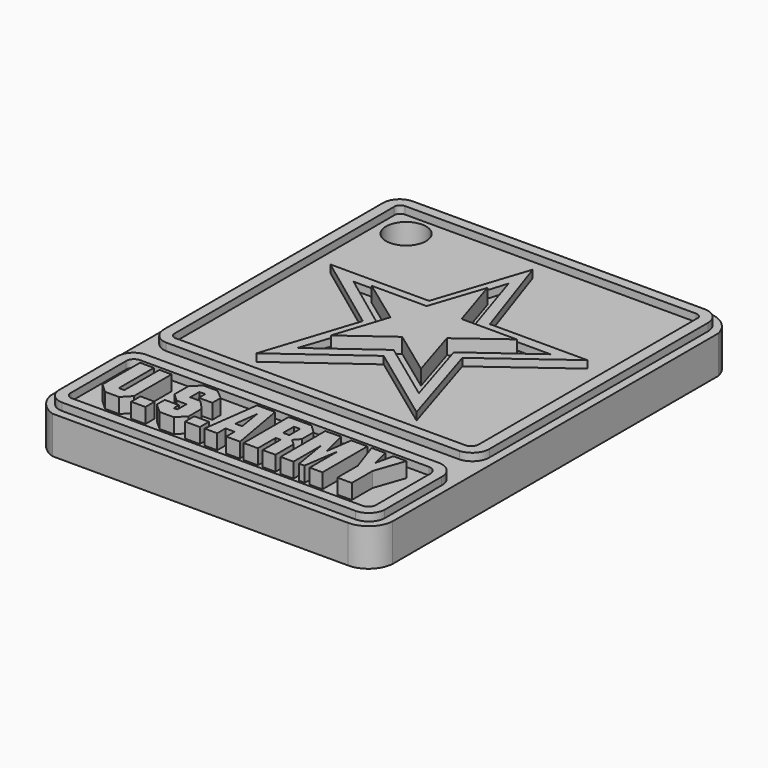
from build123d import *

# Parameters (mm, degrees)
F3_DEPTH = 5
F2_W     = 1.972348
F2_H     = 1.531718
F2_W_2   = 0.824641
F2_H_2   = 1.804244
F4_DEPTH = 7
F5_DEPTH = 6
F6_R     = 2.66535
F7_DEPTH = 25


with BuildPart() as f3:
    # F0 (on Top) → F3 (new body)
    with BuildSketch(Plane.XY):
        with BuildLine():
            ThreePointArc((-56.252591, 67.774169), (-58.569985, 66.714597), (-59.516679, 64.348847))
            Line((-59.516679, 64.348847), (-59.516679, 10.507591))
            ThreePointArc((-59.516679, 10.507591), (-58.576435, 8.605541), (-56.804508, 7.438438))
            Line((-56.804508, 7.438438), (-17.379601, 7.438438))
            ThreePointArc((-17.379601, 7.438438), (-15.063115, 8.349842), (-13.988701, 10.59537))
            Line((-13.988701, 10.59537), (-13.988701, 64.895824))
            ThreePointArc((-13.988701, 64.895824), (-15.211268, 66.892462), (-17.3801, 67.774169))
            Line((-17.3801, 67.774169), (-56.252591, 67.774169))
        make_face()
    extrude(amount=F3_DEPTH)

    # F2 (on face) → F4 (join)
    with BuildSketch(Plane.XY):
        Polygon((-34.477703, 47.703966), (-36.762577, 54.855321), (-39.136469, 47.703966), (-46.465863, 47.703966), (-40.501457, 43.371614), (-42.78633, 36.309283), (-36.792252, 40.700983), (-30.768499, 36.309283), (-32.964349, 43.371614), (-27.118638, 47.703966), align=None)
        Polygon((-52.602682, 19.098559), (-54.448072, 19.098559), (-54.448072, 12.837417), (-53.211175, 11.707636), (-51.322754, 11.707636), (-50.25265, 12.837417), (-50.25265, 19.098559), (-51.868297, 19.098559), (-51.868297, 13.260337), (-52.602682, 13.260337), align=None)
        Polygon((-47.797702, 13.197389), (-49.686123, 13.197389), (-49.686123, 11.665671), (-47.776721, 11.665671), align=None)
        with Locations((-41.523952, 12.43153)):
            Rectangle(F2_W, F2_H)
        Polygon((-27.69652, 19.156404), (-29.773781, 19.11444), (-29.773781, 11.665671), (-28.05322, 11.665671), (-28.05322, 16.260827), (-27.297853, 11.665671), (-26.605431, 11.665671), (-25.89203, 16.344756), (-25.89203, 11.665671), (-24.192452, 11.665671), (-24.192452, 19.156404), (-26.33266, 19.156404), (-26.836239, 15.631353), align=None)
        Polygon((-21.800453, 19.156404), (-23.625925, 19.156404), (-22.241084, 15.106793), (-22.241084, 11.707636), (-20.310698, 11.707636), (-20.310698, 15.16974), (-18.946839, 19.11444), (-20.688383, 19.11444), (-21.216365, 16.763071), align=None)
        Polygon((-44.189095, 19.199306), (-46.056628, 19.199306), (-47.21006, 18.192066), (-47.21006, 15.778592), (-46.140123, 14.812943), (-44.838972, 14.812943), (-44.838972, 13.301941), (-45.321684, 13.301941), (-45.321684, 14.162599), (-47.21006, 14.162599), (-47.21006, 12.837417), (-45.92995, 11.707636), (-44.04144, 11.707636), (-42.950634, 12.837417), (-42.950634, 15.00163), (-44.146817, 16.282091), (-45.510922, 16.282091), (-45.510922, 17.814049), (-44.734415, 17.814049), (-44.734415, 16.743535), (-42.929973, 16.743535), (-42.929973, 18.128658), align=None)
        Polygon((-36.5301, 19.199306), (-38.943209, 19.199306), (-39.949652, 11.707636), (-38.250133, 11.707636), (-38.250133, 13.09123), (-37.053928, 13.09123), (-37.053928, 11.707636), (-35.207368, 11.707636), align=None)
        Polygon((-38.125273, 14.558707), (-37.709754, 17.651711), (-37.212875, 14.558707), align=None, mode=Mode.SUBTRACT)
        Polygon((-31.661924, 19.199306), (-34.725517, 19.199306), (-34.725517, 11.707636), (-32.836229, 11.707636), (-32.836229, 14.685798), (-32.186054, 14.685798), (-32.186054, 11.707636), (-30.48607, 11.707636), (-30.48607, 14.727519), (-31.241864, 15.399171), (-30.553139, 16.174177), (-30.553139, 18.127391), align=None)
        with Locations((-32.530801, 16.951129)):
            Rectangle(F2_W_2, F2_H_2, mode=Mode.SUBTRACT)
    extrude(amount=F4_DEPTH)

    # F1 (on face) → F5 (join)
    with BuildSketch(Plane.XY):
        with BuildLine():
            ThreePointArc((-56.361381, 66.743255), (-57.818165, 66.035044), (-58.408085, 64.526476))
            Line((-58.408085, 64.526476), (-58.408085, 27.996894))
            ThreePointArc((-58.408085, 27.996894), (-57.826971, 26.523854), (-56.396667, 25.844317))
            Line((-56.396667, 25.844317), (-17.262138, 25.844317))
            ThreePointArc((-17.262138, 25.844317), (-15.731986, 26.565248), (-15.109562, 28.138047))
            Line((-15.109562, 28.138047), (-15.109562, 64.555392))
            ThreePointArc((-15.109562, 64.555392), (-15.701004, 66.053371), (-17.156273, 66.743255))
            Line((-17.156273, 66.743255), (-56.361381, 66.743255))
        make_face()
        with BuildLine():
            ThreePointArc((-56.961637, 64.553842), (-56.761735, 65.153459), (-56.183666, 65.409072))
            Line((-56.183666, 65.409072), (-17.366143, 65.409072))
            ThreePointArc((-17.366143, 65.409072), (-16.761555, 65.118493), (-16.610773, 64.464867))
            Line((-16.610773, 64.464867), (-16.610773, 28.233234))
            ThreePointArc((-16.610773, 28.233234), (-16.877061, 27.549546), (-17.535625, 27.226076))
            Line((-17.535625, 27.226076), (-56.227252, 27.226076))
            ThreePointArc((-56.227252, 27.226076), (-56.792806, 27.486884), (-56.961637, 28.086357))
            Line((-56.961637, 28.086357), (-56.961637, 64.553842))
        make_face(mode=Mode.SUBTRACT)
        Polygon((-32.648411, 50.138444), (-36.847699, 62.524572), (-40.870544, 50.279595), (-54.033015, 50.279595), (-43.411288, 42.410344), (-47.504712, 29.847771), (-36.81241, 37.646446), (-26.225971, 29.883061), (-30.142954, 42.410344), (-19.66238, 50.138444), align=None)
        Polygon((-39.882477, 48.762206), (-36.847699, 58.501728), (-33.707052, 48.779701), (-23.472983, 48.779701), (-31.625055, 42.833801), (-28.696308, 33.363523), (-36.847699, 39.341208), (-44.928677, 33.447161), (-41.788034, 42.869091), (-49.727861, 48.762206), align=None, mode=Mode.SUBTRACT)
        with BuildLine():
            Line((-17.296651, 22.409985), (-56.159921, 22.409985))
            ThreePointArc((-56.159921, 22.409985), (-57.73311, 21.827224), (-58.39467, 20.285513))
            Line((-58.39467, 20.285513), (-58.39467, 10.552553))
            ThreePointArc((-58.39467, 10.552553), (-57.814134, 9.136198), (-56.406535, 8.534743))
            Line((-56.406535, 8.534743), (-17.266981, 8.534743))
            ThreePointArc((-17.266981, 8.534743), (-15.755662, 9.136305), (-15.071128, 10.611899))
            Line((-15.071128, 10.611899), (-15.071128, 20.137144))
            ThreePointArc((-15.071128, 20.137144), (-15.706151, 21.741357), (-17.296651, 22.409985))
        make_face()
        with BuildLine():
            Line((-57.029683, 10.789941), (-57.029683, 20.018449))
            ThreePointArc((-57.029683, 20.018449), (-56.638588, 20.841056), (-55.753719, 21.057026))
            Line((-55.753719, 21.057026), (-17.534047, 21.057026))
            ThreePointArc((-17.534047, 21.057026), (-16.703582, 20.68187), (-16.43612, 19.810732))
            Line((-16.43612, 19.810732), (-16.43612, 10.878962))
            ThreePointArc((-16.43612, 10.878962), (-16.733474, 10.175971), (-17.445026, 9.899732))
            Line((-17.445026, 9.899732), (-56.169149, 9.899732))
            ThreePointArc((-56.169149, 9.899732), (-56.788219, 10.162327), (-57.029683, 10.789941))
        make_face(mode=Mode.SUBTRACT)
    extrude(amount=F5_DEPTH)

    # F6 (on face) → F7 (cut)
    with BuildSketch(Plane.XY.offset(5)):
        with Locations((-53.391658, 62.098049)):
            Circle(F6_R)
    extrude(amount=-F7_DEPTH, mode=Mode.SUBTRACT)


solid = f3.part
